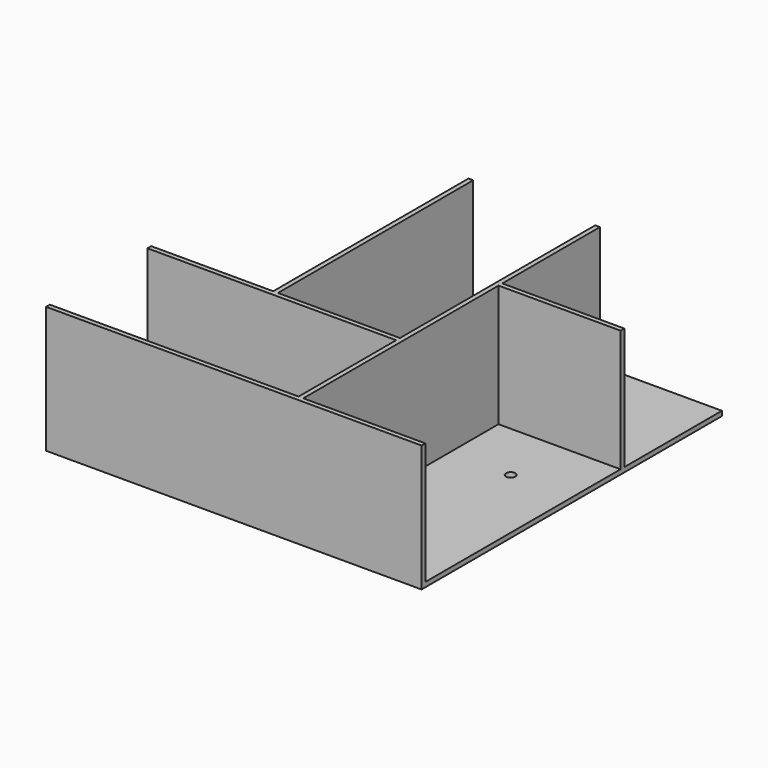
from build123d import *

# Parameters (mm, degrees)
F0_W     = 5
F0_H     = 200
F0_H_2   = 60
F0_W_2   = 130
F0_H_3   = 5
F1_DEPTH = 135
F0_R     = 5
F0_H_4   = 130
F2_DEPTH = 5


with BuildPart() as f1:
    # F0 (on Top) → F1 (new body)
    with BuildSketch(Plane.XY):
        with Locations((-67.5, 100)):
            Rectangle(F0_W, F0_H)
        with Locations((-67.5, -30)):
            Rectangle(F0_W, F0_H_2)
        Polygon((-65, -60), (-70, -60), (-200, -60), (-200, -65), (65, -65), (65, -60), align=None)
        Polygon((0, -195), (-200, -195), (-200, -200), (200, -200), (200, -195), (70, -195), (65, -195), align=None)
        Polygon((65, 200), (65, -60), (65, -65), (65, -195), (70, -195), (70, 65), (70, 70), (70, 200), align=None)
        with Locations((135, 67.5)):
            Rectangle(F0_W_2, F0_H_3)
    extrude(amount=F1_DEPTH)

    # F0 (on Top) → F2 (join)
    with BuildSketch(Plane.XY):
        with BuildLine():
            ThreePointArc((-140, 0), (-135, 5), (-130, 0))
            Line((-130, 0), (-70, 0))
            Line((-70, 0), (-70, 200))
            Line((-70, 200), (-200, 200))
            Line((-200, 200), (-200, 0))
            Line((-200, 0), (-140, 0))
        make_face()
        with BuildLine():
            Line((-70, 0), (-130, 0))
            ThreePointArc((-130, 0), (-135, -5), (-140, 0))
            Line((-140, 0), (-200, 0))
            Line((-200, 0), (-200, -60))
            Line((-200, -60), (-70, -60))
            Line((-70, -60), (-70, 0))
        make_face()
        Polygon((65, -65), (-200, -65), (-200, -195), (0, -195), (65, -195), align=None)
        with BuildLine():
            ThreePointArc((5, -130), (3.5355339059, -133.5355339059), (0, -135))
            ThreePointArc((0, -135), (-3.5355339059, -126.4644660941), (5, -130))
        make_face(mode=Mode.SUBTRACT)
        Polygon((-65, 200), (-65, 0), (-65, -60), (65, -60), (65, 200), (0, 200), align=None)
        with BuildLine():
            ThreePointArc((5, 135), (-3.5355339059, 131.4644660941), (0, 140))
            ThreePointArc((0, 140), (3.5355339059, 138.5355339059), (5, 135))
        make_face(mode=Mode.SUBTRACT)
        Polygon((70, 65), (70, -195), (200, -195), (200, -65), (200, -60), (200, 0), (200, 65), align=None)
        with Locations((135, 0)):
            Circle(F0_R, mode=Mode.SUBTRACT)
        with Locations((135, 135)):
            Rectangle(F0_W_2, F0_H_4)
    extrude(amount=F2_DEPTH)


solid = f1.part
